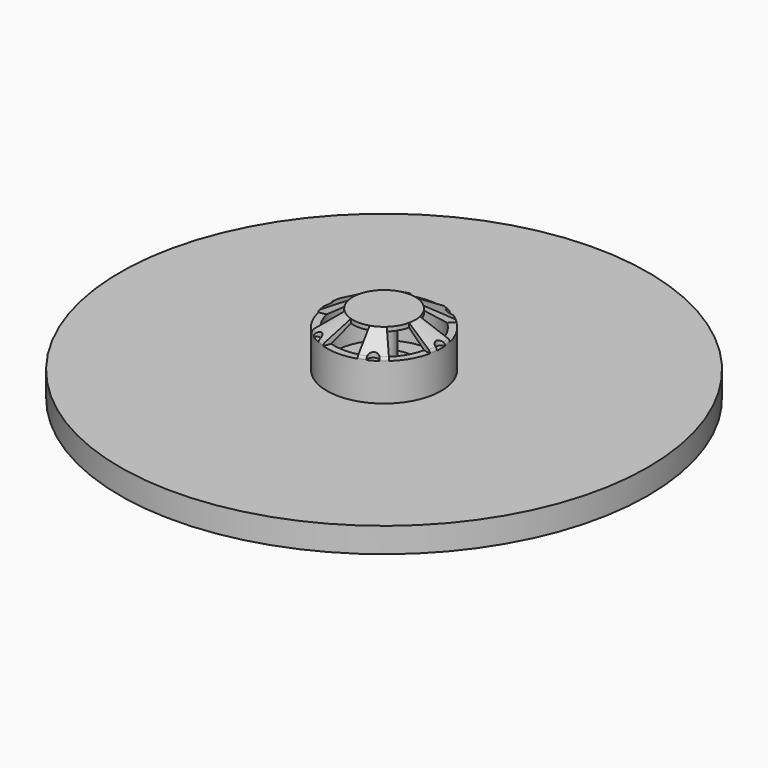
from build123d import *

# Parameters (mm, degrees)
F0_R        = 13.75
F1_DEPTH    = 16
F2_SIZE2    = 3.5
F2_SIZE     = 6.25
F3_SIZE2    = 2
F3_SIZE     = 3
F5_DEPTH    = 4
F6_R        = 0.75
F7_R        = 1.25
F8_DEPTH    = 4
F10_DEPTH   = 2.8
F11_SIZE2   = 1.75
F11_SIZE    = 2.75
F11_2_SIZE2 = 1.75
F11_2_SIZE  = 2.75
F11_3_SIZE2 = 1.75
F11_3_SIZE  = 2.75
F11_4_SIZE2 = 1.75
F11_4_SIZE  = 2.75
F14_R       = 7.5
F15_DEPTH   = 3
F16_R       = 2.5
F17_DEPTH   = 11.5
F18_R       = 7.25
F18_R_2     = 2.5
F19_DEPTH   = 3.5
F20_R       = 63.5
F20_R_2     = 7.25
F21_DEPTH   = 3


with BuildPart() as f1:
    # F0 (on Top) → F1 (new body)
    with BuildSketch(Plane.XY):
        Circle(F0_R)
    extrude(amount=F1_DEPTH)

    # F2
    f2_edges = [f1.edges().sort_by_distance(p)[0] for p in [
        (-13.75, 0, 16),
    ]]
    f2_side = f1.faces().sort_by_distance((0, 0, 16))[0]
    chamfer(f2_edges, length=F2_SIZE, length2=F2_SIZE2, reference=f2_side)

    # F3
    f3_edges = [f1.edges().sort_by_distance(p)[0] for p in [
        (-13.75, 0, 0),
    ]]
    f3_side = f1.faces().sort_by_distance((-13.75, 0, 6.25))[0]
    chamfer(f3_edges, length=F3_SIZE, length2=F3_SIZE2, reference=f3_side)

    # F4 (on face) → F5 (cut)
    with BuildSketch(Plane.XY.offset(16)):
        with BuildLine():
            ThreePointArc((-2.25, 7.1545440106), (0, 7.5), (2.25, 7.1545440106))
            Line((2.25, 7.1545440106), (4.125, 13.1166640195))
            ThreePointArc((4.125, 13.1166640195), (0, 13.75), (-4.125, 13.1166640195))
            Line((-4.125, 13.1166640195), (-2.25, 7.1545440106))
        make_face()
        with BuildLine():
            ThreePointArc((-7.3210168657, 1.6287148468), (-6.4951905284, 3.75), (-5.0710168657, 5.5258291638))
            Line((-5.0710168657, 5.5258291638), (-9.2968642538, 10.1306868004))
            ThreePointArc((-9.2968642538, 10.1306868004), (-11.907849302, 6.875), (-13.4218642538, 2.9859772191))
            Line((-13.4218642538, 2.9859772191), (-7.3210168657, 1.6287148468))
        make_face()
        with BuildLine():
            ThreePointArc((-5.0710168657, -5.5258291638), (-6.4951905284, -3.75), (-7.3210168657, -1.6287148468))
            Line((-7.3210168657, -1.6287148468), (-13.4218642538, -2.9859772191))
            ThreePointArc((-13.4218642538, -2.9859772191), (-11.907849302, -6.875), (-9.2968642538, -10.1306868004))
            Line((-9.2968642538, -10.1306868004), (-5.0710168657, -5.5258291638))
        make_face()
        with BuildLine():
            ThreePointArc((2.25, -7.1545440106), (0, -7.5), (-2.25, -7.1545440106))
            Line((-2.25, -7.1545440106), (-4.125, -13.1166640195))
            ThreePointArc((-4.125, -13.1166640195), (0, -13.75), (4.125, -13.1166640195))
            Line((4.125, -13.1166640195), (2.25, -7.1545440106))
        make_face()
        with BuildLine():
            ThreePointArc((7.3210168657, -1.6287148468), (6.4951905284, -3.75), (5.0710168657, -5.5258291638))
            Line((5.0710168657, -5.5258291638), (9.2968642538, -10.1306868004))
            ThreePointArc((9.2968642538, -10.1306868004), (11.907849302, -6.875), (13.4218642538, -2.9859772191))
            Line((13.4218642538, -2.9859772191), (7.3210168657, -1.6287148468))
        make_face()
        with BuildLine():
            ThreePointArc((5.0710168657, 5.5258291638), (6.4951905284, 3.75), (7.3210168657, 1.6287148468))
            Line((7.3210168657, 1.6287148468), (13.4218642538, 2.9859772191))
            ThreePointArc((13.4218642538, 2.9859772191), (11.907849302, 6.875), (9.2968642538, 10.1306868004))
            Line((9.2968642538, 10.1306868004), (5.0710168657, 5.5258291638))
        make_face()
    extrude(amount=-F5_DEPTH, mode=Mode.SUBTRACT)

    # F6
    f6_edges = [f1.edges().sort_by_distance(p)[0] for p in [
        (13.66772, -1.501976, 12.5),
        (6.875, 11.907849, 12.5),
        (-6.875, 11.907849, 12.5),
        (-13.75, 0, 12.5),
        (-6.875, -11.907849, 12.5),
        (6.875, -11.907849, 12.5),
    ]]
    fillet(f6_edges, radius=F6_R)

    # F7 (on face) → F8 (cut)
    with BuildSketch(Plane.XY.offset(16)):
        with Locations((13.75, 0)):
            Circle(F7_R)
        with Locations((6.875, 11.907849302)):
            Circle(F7_R)
        with Locations((-6.875, 11.907849302)):
            Circle(F7_R)
        with Locations((-13.75, 0)):
            Circle(F7_R)
        with Locations((-6.875, -11.907849302)):
            Circle(F7_R)
        with Locations((6.875, -11.907849302)):
            Circle(F7_R)
    extrude(amount=-F8_DEPTH, mode=Mode.SUBTRACT)

    # F9 (on face) → F10 (cut)
    with BuildSketch(Plane(origin=(0, 0, 0), x_dir=(1, 0, 0), z_dir=(0, 0, -1))):
        with BuildLine():
            ThreePointArc((-3, 10.8426242211), (0, 11.25), (3, 10.8426242211))
            Line((3, 10.8426242211), (3, 13.4187369003))
            ThreePointArc((3, 13.4187369003), (0, 13.75), (-3, 13.4187369003))
            Line((-3, 13.4187369003), (-3, 10.8426242211))
        make_face()
        with BuildLine():
            Line((-10.8426242211, 3), (-13.4187369003, 3))
            ThreePointArc((-13.4187369003, 3), (-13.75, 0), (-13.4187369003, -3))
            Line((-13.4187369003, -3), (-10.8426242211, -3))
            ThreePointArc((-10.8426242211, -3), (-11.25, 0), (-10.8426242211, 3))
        make_face()
        with BuildLine():
            Line((-3, -10.8426242211), (-3, -13.4187369003))
            ThreePointArc((-3, -13.4187369003), (0, -13.75), (3, -13.4187369003))
            Line((3, -13.4187369003), (3, -10.8426242211))
            ThreePointArc((3, -10.8426242211), (0, -11.25), (-3, -10.8426242211))
        make_face()
        with BuildLine():
            Line((10.8426242211, -3), (13.4187369003, -3))
            ThreePointArc((13.4187369003, -3), (13.75, 0), (13.4187369003, 3))
            Line((13.4187369003, 3), (10.8426242211, 3))
            ThreePointArc((10.8426242211, 3), (11.25, 0), (10.8426242211, -3))
        make_face()
    extrude(amount=-F10_DEPTH, mode=Mode.SUBTRACT)

    # F11
    f11_edges = [f1.edges().sort_by_distance(p)[0] for p in [
        (11.25, 0, 2.8),
    ]]
    f11_side = f1.faces().sort_by_distance((11.25, 0, 1.4))[0]
    chamfer(f11_edges, length=F11_SIZE, length2=F11_SIZE2, reference=f11_side)

    # F11#2
    f11_2_edges = [f1.edges().sort_by_distance(p)[0] for p in [
        (0, -11.25, 2.8),
    ]]
    f11_2_side = f1.faces().sort_by_distance((0, -11.25, 1.4))[0]
    chamfer(f11_2_edges, length=F11_2_SIZE, length2=F11_2_SIZE2, reference=f11_2_side)

    # F11#3
    f11_3_edges = [f1.edges().sort_by_distance(p)[0] for p in [
        (-11.25, 0, 2.8),
    ]]
    f11_3_side = f1.faces().sort_by_distance((-11.25, 0, 1.4))[0]
    chamfer(f11_3_edges, length=F11_3_SIZE, length2=F11_3_SIZE2, reference=f11_3_side)

    # F11#4
    f11_4_edges = [f1.edges().sort_by_distance(p)[0] for p in [
        (0, 11.25, 2.8),
    ]]
    f11_4_side = f1.faces().sort_by_distance((0, 11.25, 1.4))[0]
    chamfer(f11_4_edges, length=F11_4_SIZE, length2=F11_4_SIZE2, reference=f11_4_side)

    # F12 (on Front) → F13 (revolve, cut)
    with BuildSketch(Plane.XZ):
        Polygon((0, 1.5), (0, 15), (-7.5, 15), (-12, 12), (-12, 3), (-11, 1.5), align=None)
    revolve(axis=Axis((0, 0, 8.25), (0, 0, 1)), mode=Mode.SUBTRACT)


with BuildPart() as f15:
    # F14 (on Top) → F15 (new body)
    with BuildSketch(Plane.XY):
        Circle(F14_R)
    extrude(amount=F15_DEPTH)

    # F16 (on face) → F17 (join)
    with BuildSketch(Plane.XY.offset(3)):
        Circle(F16_R)
    extrude(amount=F17_DEPTH)


with BuildPart() as f19:
    # F18 (on Top) → F19 (new body, symmetric)
    with BuildSketch(Plane.XY):
        Circle(F18_R)
        Circle(F18_R_2, mode=Mode.SUBTRACT)
    extrude(amount=F19_DEPTH, both=True)

    # F20 (on Top) → F21 (join, symmetric)
    with BuildSketch(Plane.XY):
        Circle(F20_R)
        Circle(F20_R_2, mode=Mode.SUBTRACT)
    extrude(amount=F21_DEPTH, both=True)


solid = Compound([f1.part, f15.part, f19.part])
